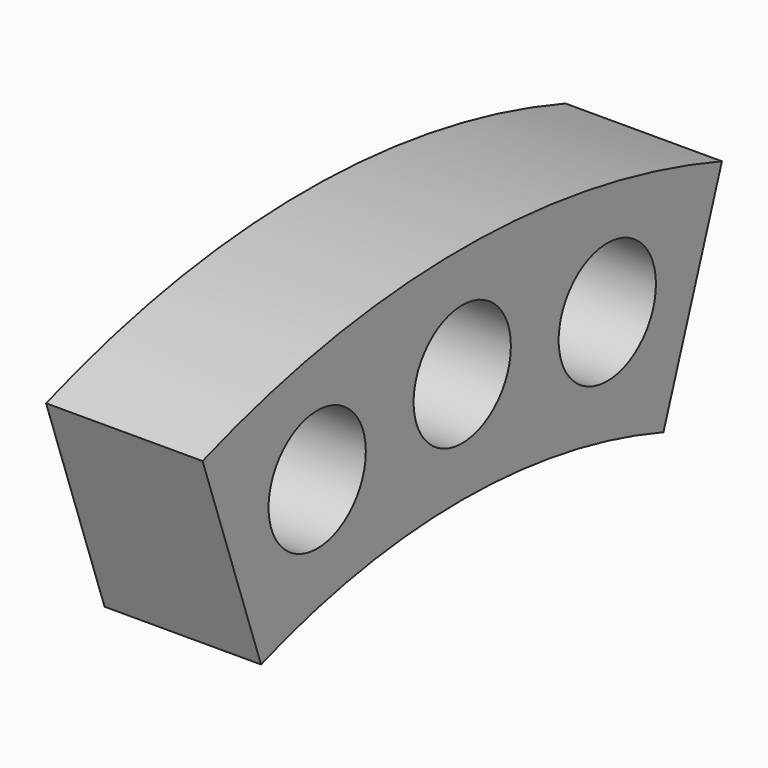
from build123d import *

# Parameters (mm, degrees)
F1_R     = 1.5494
F2_DEPTH = 3.9878


with BuildPart() as f2:
    # F1 (on Right) → F2 (new body)
    with BuildSketch(Plane.YZ):
        with BuildLine():
            ThreePointArc((8.272591, 23.638659), (0, 25.0444), (-8.272591, 23.638659))
            Line((-8.272591, 23.638659), (-6.409999, 18.316365))
            ThreePointArc((-6.409999, 18.316365), (0, 19.4056), (6.409999, 18.316365))
            Line((6.409999, 18.316365), (8.272591, 23.638659))
        make_face()
        with Locations((-4.620837, 21.73933)):
            Circle(F1_R, mode=Mode.SUBTRACT)
        with Locations((0, 22.225)):
            Circle(F1_R, mode=Mode.SUBTRACT)
        with Locations((4.620837, 21.73933)):
            Circle(F1_R, mode=Mode.SUBTRACT)
    extrude(amount=F2_DEPTH)


solid = f2.part
